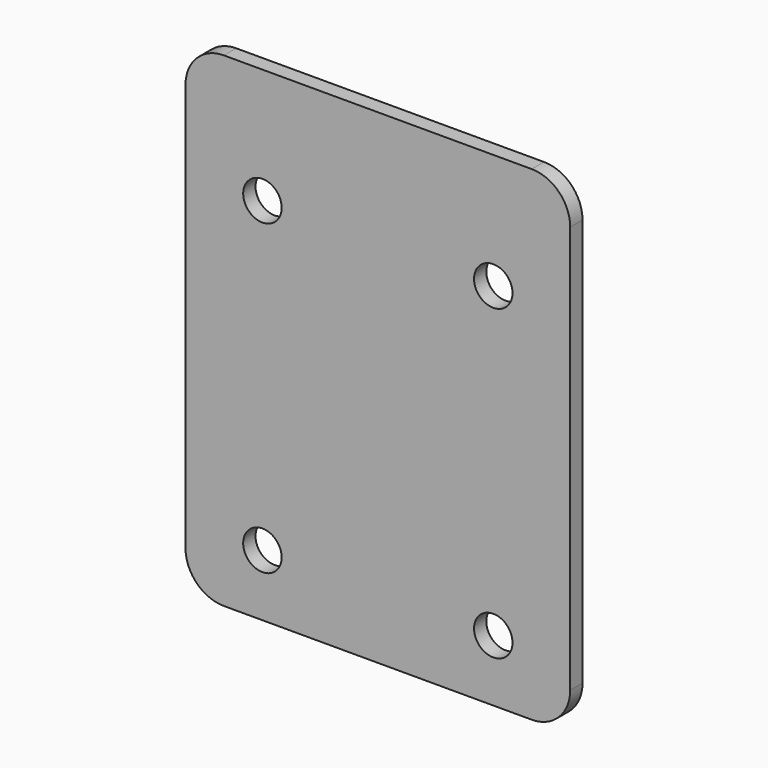
from build123d import *

# Parameters (mm, degrees)
F0_R     = 2.5
F1_DEPTH = 2
F2_R     = 5


with BuildPart() as f1:
    # F0 (on Front) → F1 (new body)
    with BuildSketch(Plane.XZ):
        Polygon((-25, 7), (0, 7), (0, 50.54388), (0, 70), (-25, 70), align=None)
        with Locations((-15, 15)):
            Circle(F0_R, mode=Mode.SUBTRACT)
        with Locations((-15, 55)):
            Circle(F0_R, mode=Mode.SUBTRACT)
        Polygon((0, 50.54388), (0, 7), (25, 7), (25, 70), (0, 70), align=None)
        with Locations((15, 15)):
            Circle(F0_R, mode=Mode.SUBTRACT)
        with Locations((15, 55)):
            Circle(F0_R, mode=Mode.SUBTRACT)
    extrude(amount=F1_DEPTH)

    # F2
    f2_edges = [f1.edges().sort_by_distance(p)[0] for p in [
        (-25, -1, 70),
        (25, -1, 70),
        (-25, -1, 7),
        (25, -1, 7),
    ]]
    fillet(f2_edges, radius=F2_R)


solid = f1.part
